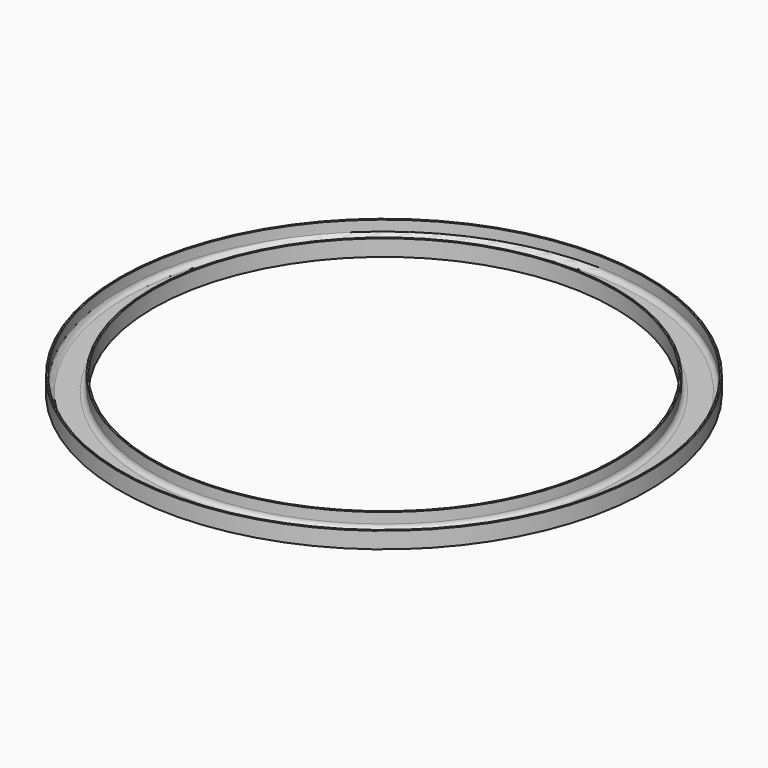
from build123d import *

# Parameters (mm, degrees)
F3_R = 1.5


with BuildPart() as f2:
    # F0 (on Front) → F2 (revolve)
    with BuildSketch(Plane.XZ):
        Polygon((-71.225, 0), (-70.725, 0), (-70.725, 5), (-71.225, 5), (-71.225, 0.3), align=None)
        Polygon((-80.425, 0), (-71.225, 0), (-71.225, 0.3), (-75.825, 0.3), (-80.425, 0.3), align=None)
        Polygon((-80.925, 0), (-80.425, 0), (-80.425, 0.3), (-80.425, 5), (-80.925, 5), align=None)
    revolve(axis=Axis((0, 0, 3.782909), (0, 0, -1)))

    # F3
    f3_edges = [f2.edges().sort_by_distance(p)[0] for p in [
        (80.425, 0, 0.3),
        (71.225, 0, 0.3),
    ]]
    fillet(f3_edges, radius=F3_R)


solid = f2.part
